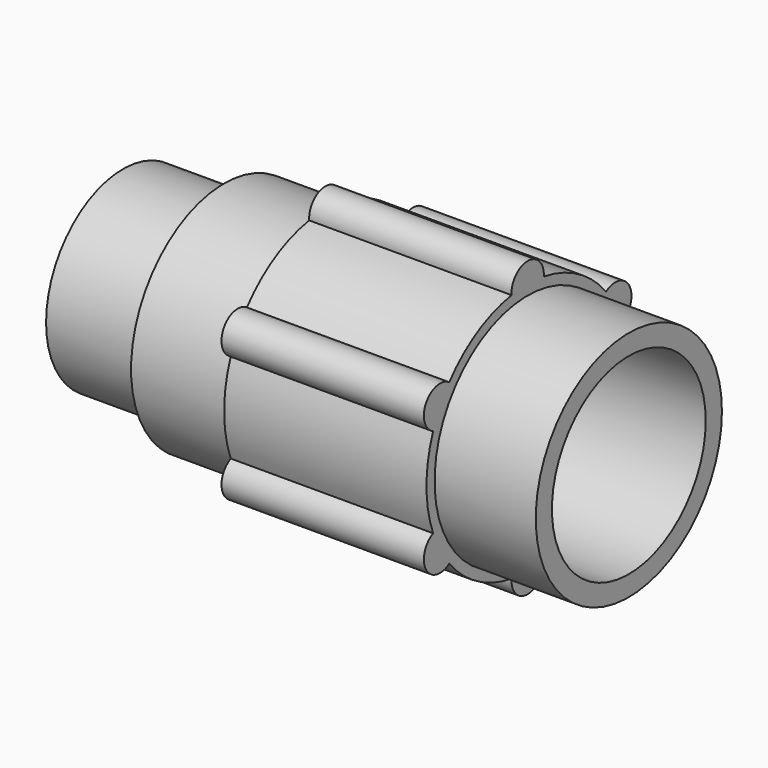
from build123d import *

# Parameters (mm, degrees)
F0_R     = 8.5
F1_DEPTH = 10
F2_R     = 11.5
F2_R_2   = 8.5
F3_DEPTH = 20
F4_R     = 9.5
F4_R_2   = 7.5
F5_DEPTH = 10
F6_R     = 9.5
F7_DEPTH = 25


with BuildPart() as f1:
    # F0 (on Right) → F1 (new body, symmetric)
    with BuildSketch(Plane.YZ):
        with BuildLine():
            ThreePointArc((11.683548, -4.443501), (12.294193, -2.258943), (12.5, 0))
            ThreePointArc((12.5, 0), (12.294193, 2.258943), (11.683548, 4.443501))
            ThreePointArc((11.683548, 4.443501), (10.825318, 6.25), (9.689959, 7.896499))
            ThreePointArc((9.689959, 7.896499), (6.25, 10.825318), (1.99359, 12.34))
            ThreePointArc((1.99359, 12.34), (0, 12.5), (-1.99359, 12.34))
            ThreePointArc((-1.99359, 12.34), (-6.25, 10.825318), (-9.689959, 7.896499))
            ThreePointArc((-9.689959, 7.896499), (-10.825318, 6.25), (-11.683548, 4.443501))
            ThreePointArc((-11.683548, 4.443501), (-12.5, 0), (-11.683548, -4.443501))
            ThreePointArc((-11.683548, -4.443501), (-10.825318, -6.25), (-9.689959, -7.896499))
            ThreePointArc((-9.689959, -7.896499), (-6.25, -10.825318), (-1.99359, -12.34))
            ThreePointArc((-1.99359, -12.34), (0, -12.5), (1.99359, -12.34))
            ThreePointArc((1.99359, -12.34), (6.25, -10.825318), (9.689959, -7.896499))
            ThreePointArc((9.689959, -7.896499), (10.825318, -6.25), (11.683548, -4.443501))
        make_face()
        Circle(F0_R, mode=Mode.SUBTRACT)
        with BuildLine():
            ThreePointArc((9.689959, 7.896499), (10.825318, 6.25), (11.683548, 4.443501))
            ThreePointArc((11.683548, 4.443501), (12.557368, 7.25), (9.689959, 7.896499))
        make_face()
        with BuildLine():
            ThreePointArc((9.689959, -7.896499), (12.557368, -7.25), (11.683548, -4.443501))
            ThreePointArc((11.683548, -4.443501), (10.825318, -6.25), (9.689959, -7.896499))
        make_face()
        with BuildLine():
            ThreePointArc((-1.99359, 12.34), (0, 12.5), (1.99359, 12.34))
            ThreePointArc((1.99359, 12.34), (0, 14.5), (-1.99359, 12.34))
        make_face()
        with BuildLine():
            ThreePointArc((-1.99359, -12.34), (0, -14.5), (1.99359, -12.34))
            ThreePointArc((1.99359, -12.34), (0, -12.5), (-1.99359, -12.34))
        make_face()
        with BuildLine():
            ThreePointArc((-11.683548, 4.443501), (-10.825318, 6.25), (-9.689959, 7.896499))
            ThreePointArc((-9.689959, 7.896499), (-12.557368, 7.25), (-11.683548, 4.443501))
        make_face()
        with BuildLine():
            ThreePointArc((-11.683548, -4.443501), (-12.557368, -7.25), (-9.689959, -7.896499))
            ThreePointArc((-9.689959, -7.896499), (-10.825318, -6.25), (-11.683548, -4.443501))
        make_face()
    extrude(amount=F1_DEPTH, both=True)

    # F2 (on Right) → F3 (join, symmetric)
    with BuildSketch(Plane.YZ):
        Circle(F2_R)
        Circle(F2_R_2, mode=Mode.SUBTRACT)
    extrude(amount=F3_DEPTH, both=True)

    # F4 (on face) → F5 (join)
    with BuildSketch(Plane(origin=(-20, 0, 0), x_dir=(0, -1, 0), z_dir=(-1, 0, 0))):
        Circle(F4_R)
        Circle(F4_R_2, mode=Mode.SUBTRACT)
    extrude(amount=F5_DEPTH)

    # F6 (on face) → F7 (cut)
    with BuildSketch(Plane.YZ.offset(20)):
        Circle(F6_R)
    extrude(amount=-F7_DEPTH, mode=Mode.SUBTRACT)


solid = f1.part
